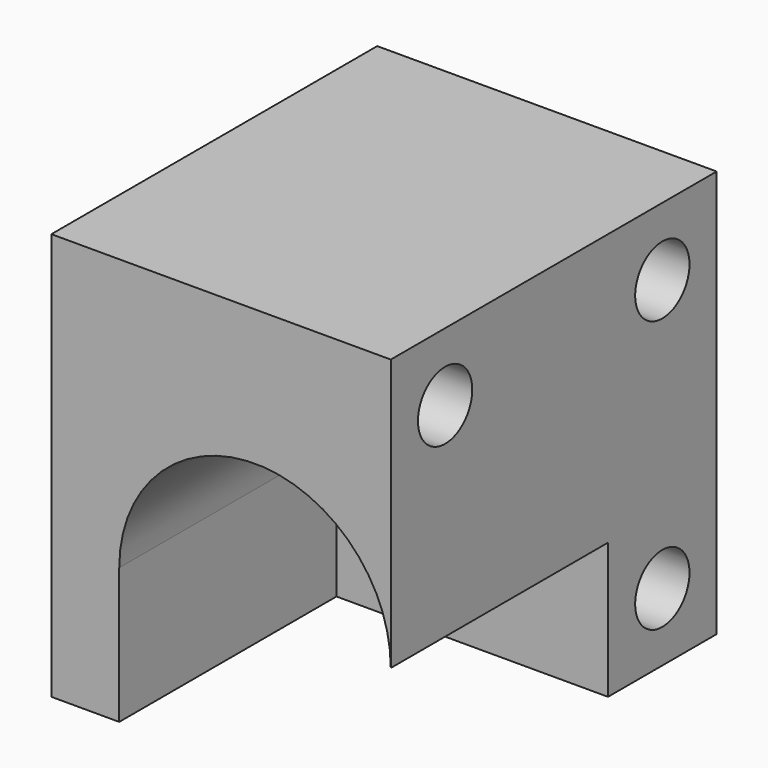
from build123d import *

# Parameters (mm, degrees)
F1_DEPTH = 38.1
F2_DEPTH = 12.7
F3_R     = 3.175
F4_DEPTH = 31.751
F5_SIZE  = 2.54


with BuildPart() as f1:
    # F0 (on Front) → F1 (new body)
    with BuildSketch(Plane.XZ):
        with BuildLine():
            Line((15.875, -6.35), (15.875, 19.05))
            Line((15.875, 19.05), (-15.875, 19.05))
            Line((-15.875, 19.05), (-15.875, -19.05))
            Line((-15.875, -19.05), (-9.525, -19.05))
            Line((-9.525, -19.05), (-9.525, -6.35))
            ThreePointArc((-9.525, -6.35), (3.175, 6.35), (15.875, -6.35))
        make_face()
    extrude(amount=F1_DEPTH)

    # F0 (on Front) → F2 (join)
    with BuildSketch(Plane.XZ):
        with BuildLine():
            ThreePointArc((3.1749999328, -19.05), (12.1552560973, -15.3302561448), (15.875, -6.35))
            ThreePointArc((15.875, -6.35), (3.175, 6.35), (-9.525, -6.35))
            ThreePointArc((-9.525, -6.35), (-5.8052561448, -15.3302560973), (3.1749999328, -19.05))
        make_face()
        with BuildLine():
            Line((15.875, -19.05), (15.875, -6.35))
            ThreePointArc((15.875, -6.35), (12.1552560973, -15.3302561448), (3.1749999328, -19.05))
            Line((3.1749999328, -19.05), (15.875, -19.05))
        make_face()
        with BuildLine():
            ThreePointArc((3.1749999328, -19.05), (-5.8052561448, -15.3302560973), (-9.525, -6.35))
            Line((-9.525, -6.35), (-9.525, -19.05))
            Line((-9.525, -19.05), (3.1749999328, -19.05))
        make_face()
    extrude(amount=F2_DEPTH)

    # F3 (on face) → F4 (cut, through all)
    with BuildSketch(Plane.YZ.offset(15.875)):
        with Locations((-31.75, 12.7)):
            Circle(F3_R)
        with Locations((-6.35, 12.7)):
            Circle(F3_R)
        with Locations((-6.35, -12.7)):
            Circle(F3_R)
    extrude(amount=-F4_DEPTH, mode=Mode.SUBTRACT)

    # F5
    f5_edges = [f1.edges().sort_by_distance(p)[0] for p in [
        (-15.875, -9.525, -12.7),
        (-15.875, -9.525, 12.7),
        (-15.875, -34.925, 12.7),
    ]]
    chamfer(f5_edges, length=F5_SIZE)


solid = f1.part
